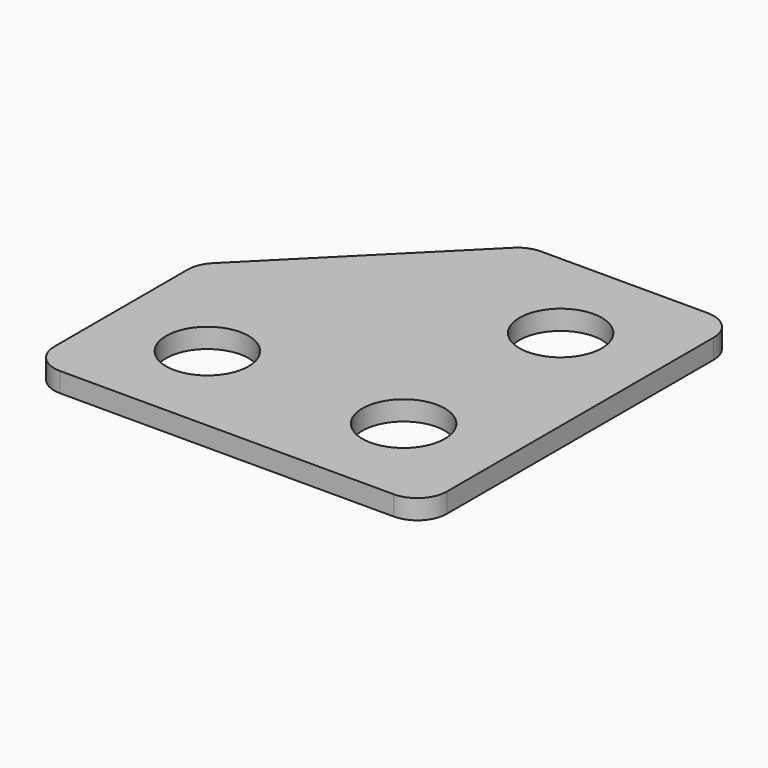
from build123d import *

# Parameters (mm, degrees)
SKETCH_R  = 2.1
PAD_DEPTH = 1


with BuildPart() as part:
    # Sketch → Pad (new body)
    with BuildSketch(Plane.XY):
        with BuildLine():
            Line((-5, 15), (3.5, 15))
            ThreePointArc((5, 13.5), (4.56066, 14.56066), (3.5, 15))
            Line((5, 13.5), (5, -3.5))
            ThreePointArc((3.5, -5), (4.56066, -4.56066), (5, -3.5))
            Line((3.5, -5), (-13.5, -5))
            ThreePointArc((-15, -3.5), (-14.56066, -4.56066), (-13.5, -5))
            Line((-15, -3.5), (-15, 5))
            ThreePointArc((-14.56066, 6.06066), (-14.885819, 5.574025), (-15, 5))
            Line((-14.56066, 6.06066), (-6.06066, 14.56066))
            ThreePointArc((-5, 15), (-5.574025, 14.885819), (-6.06066, 14.56066))
        make_face()
        with Locations((0, 10)):
            Circle(SKETCH_R, mode=Mode.SUBTRACT)
        with Locations((-10, 0)):
            Circle(SKETCH_R, mode=Mode.SUBTRACT)
        Circle(SKETCH_R, mode=Mode.SUBTRACT)
    extrude(amount=PAD_DEPTH)


solid = part.part
